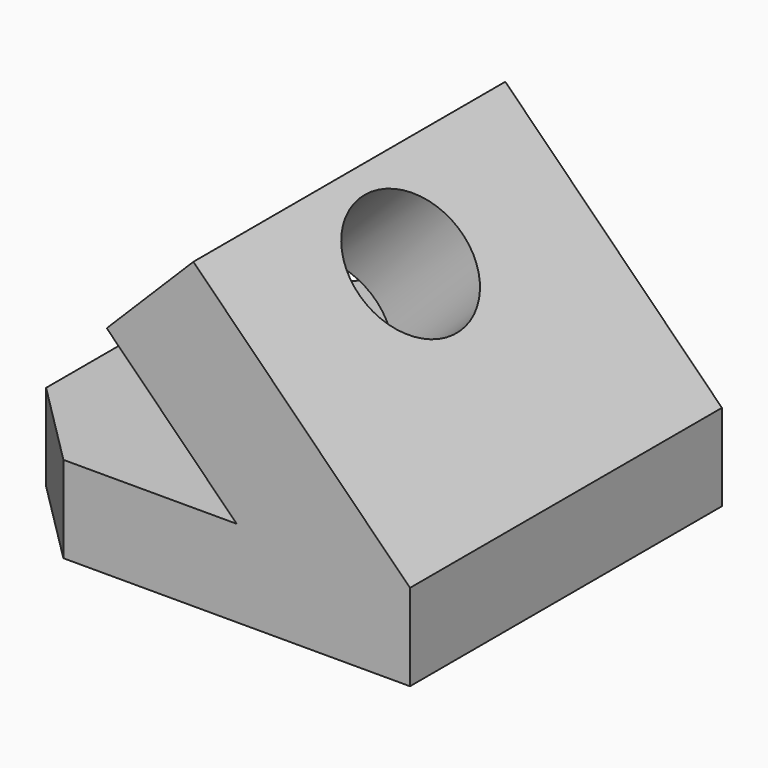
from build123d import *

# Parameters (mm, degrees)
F1_DEPTH = 114.3
F3_DEPTH = 50.8
F5_DEPTH = 76.2


with BuildPart() as f1:
    # F0 (on Front) → F1 (new body, symmetric)
    with BuildSketch(Plane.XZ):
        Polygon((50.8, 50.8), (50.8, 0), (254, 0), (254, 50.8), (127, 177.8), (76.2, 127), (152.4, 50.8), align=None)
        Polygon((50.8, 50.8), (50.8, 0), (254, 0), (254, 50.8), (127, 177.8), (76.2, 127), (152.4, 50.8), align=None)
    extrude(amount=F1_DEPTH, both=True)

    # F2 (on face) → F3 (join)
    with BuildSketch(Plane(origin=(0, 0, 0), x_dir=(1, 0, 0), z_dir=(0, 0, -1))):
        Polygon((50.8, -114.3), (50.8, 114.3), (0, 63.5), (0, 0), (0, -63.5), align=None)
    extrude(amount=-F3_DEPTH)

    # F4 (on face) → F5 (cut, symmetric)
    with BuildSketch(Plane(origin=(152.4, 0, 152.4), x_dir=(0.707107, 0, -0.707107), z_dir=(0.707107, 0, 0.707107))):
        with BuildLine():
            ThreePointArc((52.978976, 0), (14.878976, 38.1), (-23.221024, 0))
            ThreePointArc((-23.221024, 0), (14.878976, -38.1), (52.978976, 0))
        make_face()
    extrude(amount=F5_DEPTH, both=True, mode=Mode.SUBTRACT)


solid = f1.part
